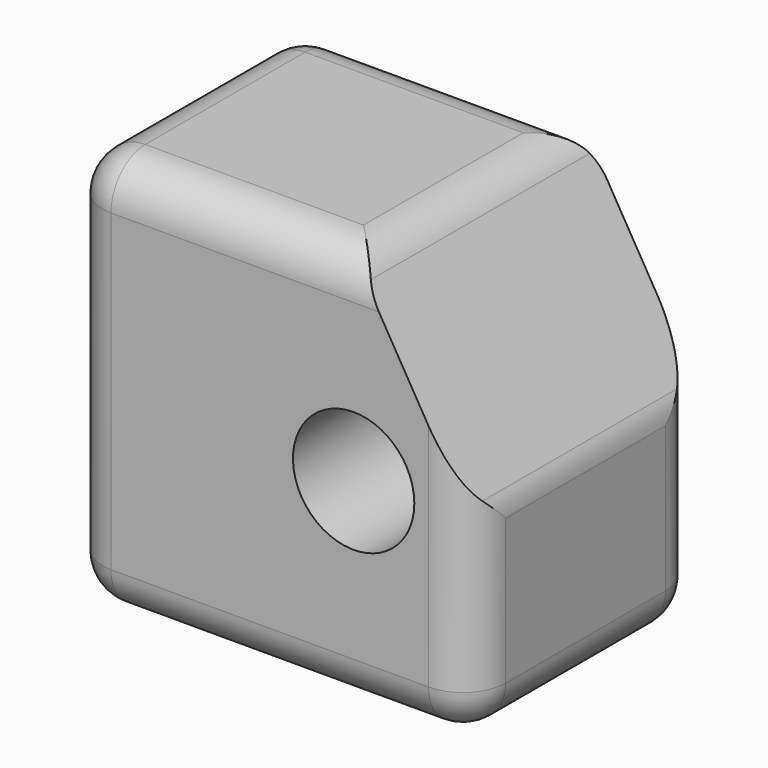
from build123d import *

# Parameters (mm, degrees)
F1_DEPTH = 20
F2_R     = 3


with BuildPart() as f1:
    # F0 (on Front) → F1 (new body)
    with BuildSketch(Plane.XZ):
        with BuildLine():
            Line((8.25, 0), (4.25, 0))
            ThreePointArc((4.25, 0), (-3.00520382, -3.00520382), (0, 4.25))
            Line((0, 4.25), (0, 14))
            Line((0, 14), (-20, 14))
            Line((-20, 14), (-20, 0))
            Line((-20, 0), (-20, -14))
            Line((-20, -14), (0, -14))
            Line((0, -14), (8.25, -14))
            Line((8.25, -14), (8.25, 0))
        make_face()
        with BuildLine():
            ThreePointArc((0, 4.25), (3.00520382, 3.00520382), (4.25, 0))
            Line((4.25, 0), (8.25, 0))
            Line((8.25, 0), (0, 14))
            Line((0, 14), (0, 4.25))
        make_face()
    extrude(amount=-F1_DEPTH)

    # F2
    f2_edges = [f1.edges().sort_by_distance(p)[0] for p in [
        (0, 10, 14),
        (8.25, 10, 0),
        (-20, 10, 14),
        (-20, 20, 0),
        (-10, 0, 14),
        (-20, 0, 0),
        (-5.875, 0, -14),
        (8.25, 0, -7),
        (-10, 20, 14),
        (-5.875, 20, -14),
        (8.25, 10, -14),
        (8.25, 20, -7),
        (-20, 10, -14),
    ]]
    fillet(f2_edges, radius=F2_R)


solid = f1.part
